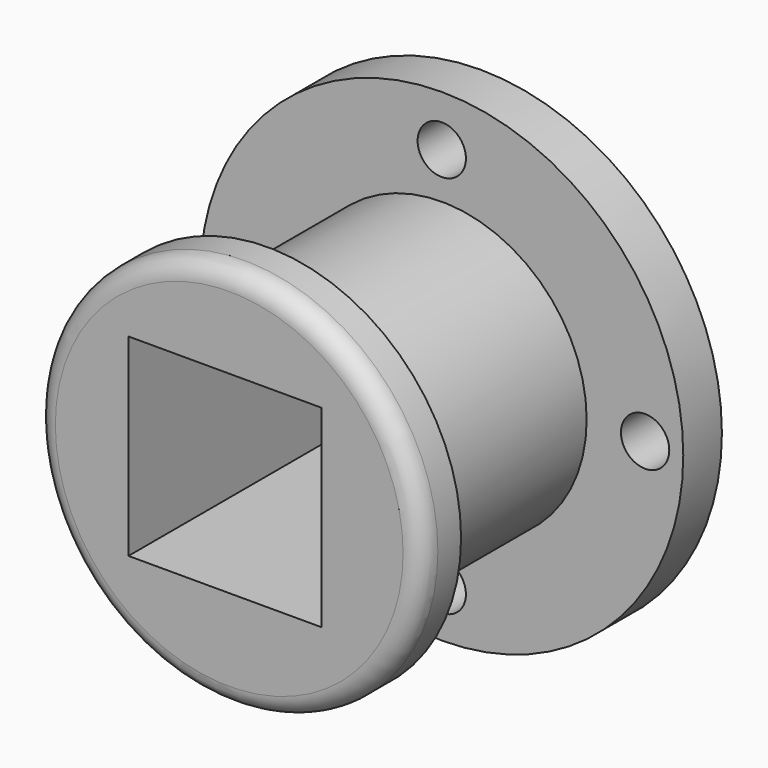
from build123d import *

# Parameters (mm, degrees)
F0_R     = 63.5
F0_R_2   = 6.35
F1_DEPTH = 12.7
F2_R     = 38.1
F3_DEPTH = 57.15
F4_R     = 50.8
F4_R_2   = 38.1
F5_DEPTH = 12.7
F7_R     = 5.08
F6_W     = 50.8
F6_H     = 50.8
F8_DEPTH = 101.6


with BuildPart() as f1:
    # F0 (on Front) → F1 (new body)
    with BuildSketch(Plane.XZ):
        Circle(F0_R)
        with Locations((0, -50.7437102497)):
            Circle(F0_R_2, mode=Mode.SUBTRACT)
        with Locations((-52.7006015182, 0)):
            Circle(F0_R_2, mode=Mode.SUBTRACT)
        with Locations((53.468182683, 0)):
            Circle(F0_R_2, mode=Mode.SUBTRACT)
        with Locations((0, 50.1231923699)):
            Circle(F0_R_2, mode=Mode.SUBTRACT)
    extrude(amount=F1_DEPTH)

    # F2 (on face) → F3 (join)
    with BuildSketch(Plane.XZ.offset(12.7)):
        Circle(F2_R)
    extrude(amount=F3_DEPTH)

    # F4 (on face) → F5 (join)
    with BuildSketch(Plane.XZ.offset(69.85)):
        Circle(F4_R)
        Circle(F4_R_2, mode=Mode.SUBTRACT)
        Circle(F4_R_2)
    extrude(amount=F5_DEPTH)

    # F7
    f7_edges = [f1.edges().sort_by_distance(p)[0] for p in [
        (-50.8, -82.55, 0),
    ]]
    fillet(f7_edges, radius=F7_R)

    # F6 (on face) → F8 (cut)
    with BuildSketch(Plane.XZ.offset(82.55)):
        with Locations((-1.090021497, 1.2715517819)):
            Rectangle(F6_W, F6_H)
    extrude(amount=-F8_DEPTH, mode=Mode.SUBTRACT)


solid = f1.part
